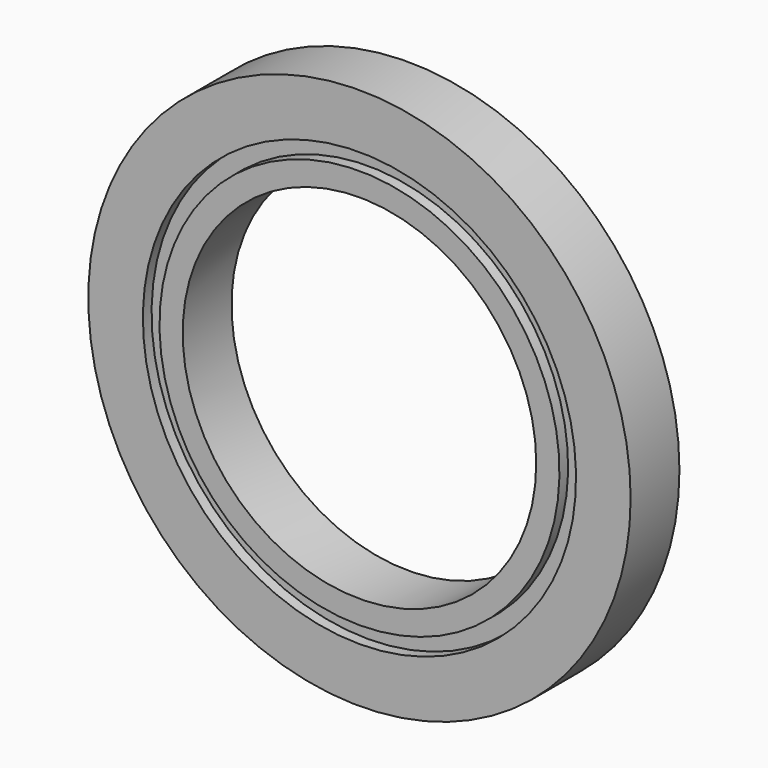
from build123d import *

# Parameters (mm, degrees)
F0_R     = 40
F0_R_2   = 26.075
F1_DEPTH = 9
F2_W     = 1.6
F2_H     = 2.45


with BuildPart() as f1:
    # F0 (on Front) → F1 (new body)
    with BuildSketch(Plane.XZ):
        Circle(F0_R)
        Circle(F0_R_2, mode=Mode.SUBTRACT)
    extrude(amount=F1_DEPTH)

    # F2 (on Right) → F3 (revolve, cut)
    with BuildSketch(Plane.YZ):
        with Locations((-8.2, -30.725)):
            Rectangle(F2_W, F2_H)
    revolve(axis=Axis((0, 0, 0), (0, 1, 0)), mode=Mode.SUBTRACT)


solid = f1.part
